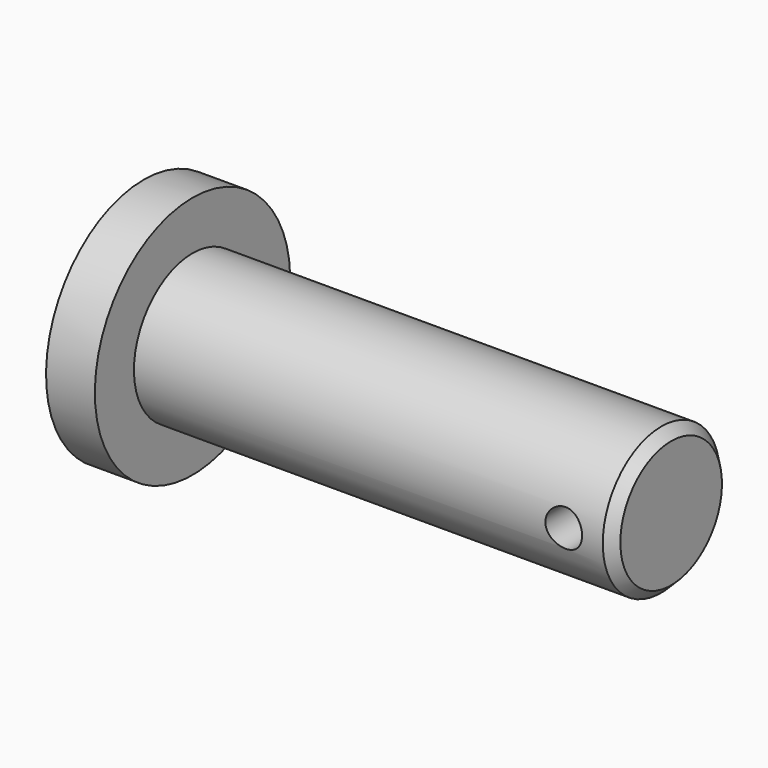
from build123d import *

# Parameters (mm, degrees)
F0_W          = 62.23
F0_H          = 9.525
F2_SIZE2      = 1.27
F2_SIZE       = 1.27
F3_R          = 2.3876
F4_DEPTH      = 15.876
F4_DEPTH_BACK = 15.876


with BuildPart() as f1:
    # F0 (on Front) → F1 (revolve)
    with BuildSketch(Plane.XZ):
        Polygon((0, 15.875), (0, 0), (6.35, 0), (6.35, 9.525), (6.35, 15.875), align=None)
        with Locations((37.465, 4.7625)):
            Rectangle(F0_W, F0_H)
    revolve(axis=Axis((37.465, 0, 0), (1, 0, 0)))

    # F2
    f2_edges = [f1.edges().sort_by_distance(p)[0] for p in [
        (68.58, 0, -9.525),
    ]]
    chamfer(f2_edges, length=F2_SIZE, length2=F2_SIZE2)

    # F3 (on Front) → F4 (cut, two sides)
    with BuildSketch(Plane.XZ) as f4_sk:
        with Locations((62.23, 0)):
            Circle(F3_R)
    extrude(amount=-F4_DEPTH, mode=Mode.SUBTRACT)
    extrude(f4_sk.sketch, amount=F4_DEPTH_BACK, mode=Mode.SUBTRACT)


solid = f1.part
